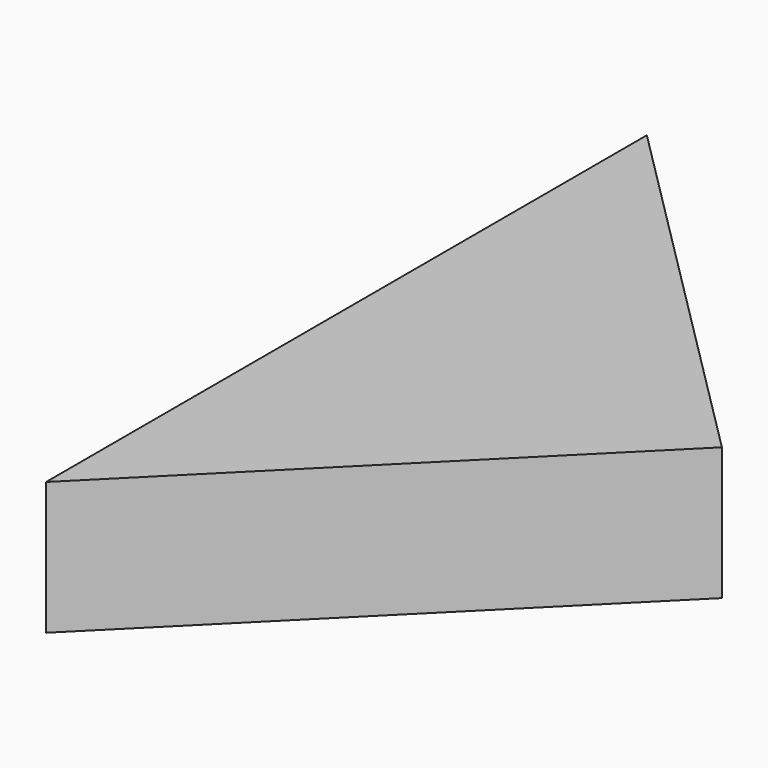
from build123d import *

# Parameters (mm, degrees)
PAD_DEPTH = 0.015


with BuildPart() as part:
    # Sketch → Pad (new body, symmetric)
    with BuildSketch(Plane.XY):
        Polygon((0.056569, 0), (-0.028284, 0.084853), (-0.028284, -0.084853), align=None)
    extrude(amount=PAD_DEPTH, both=True)


solid = part.part
